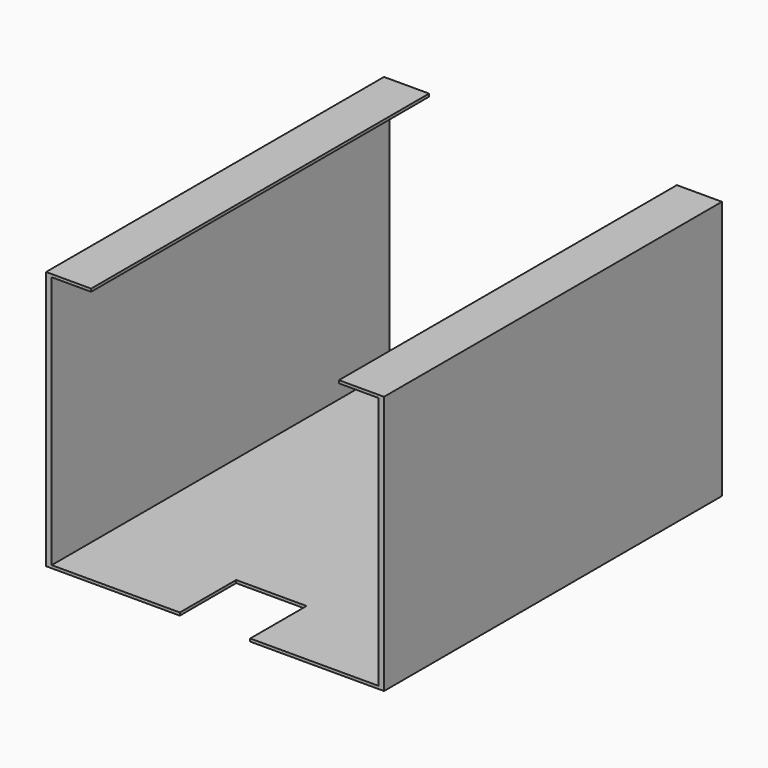
from build123d import *

# Parameters (mm, degrees)
F0_W     = 60
F0_H     = 75
F1_DEPTH = 0.5
F2_W     = 1
F2_H     = 75
F3_DEPTH = 45
F4_W     = 8
F4_H     = 75
F5_DEPTH = 0.5
F6_W     = 12.5
F6_H     = 12.5
F7_DEPTH = 0.5


with BuildPart() as f1:
    # F0 (on Top) → F1 (new body)
    with BuildSketch(Plane.XY):
        with Locations((1.917277, -3.667414)):
            Rectangle(F0_W, F0_H)
    extrude(amount=F1_DEPTH)

    # F2 (on face) → F3 (join)
    with BuildSketch(Plane.XY.offset(0.5)):
        with Locations((-27.582723, -3.667414)):
            Rectangle(F2_W, F2_H)
        with Locations((31.417277, -3.667414)):
            Rectangle(F2_W, F2_H)
    extrude(amount=F3_DEPTH)

    # F4 (on face) → F5 (join)
    with BuildSketch(Plane.XY.offset(45.5)):
        with Locations((-24.082723, -3.667414)):
            Rectangle(F4_W, F4_H)
        with Locations((27.917277, -3.667414)):
            Rectangle(F4_W, F4_H)
    extrude(amount=F5_DEPTH)

    # F6 (on face) → F7 (cut, through all)
    with BuildSketch(Plane(origin=(0, 0, 0), x_dir=(1, 0, 0), z_dir=(0, 0, -1))):
        with Locations((1.917277, 34.917414)):
            Rectangle(F6_W, F6_H)
    extrude(amount=-F7_DEPTH, mode=Mode.SUBTRACT)


solid = f1.part
